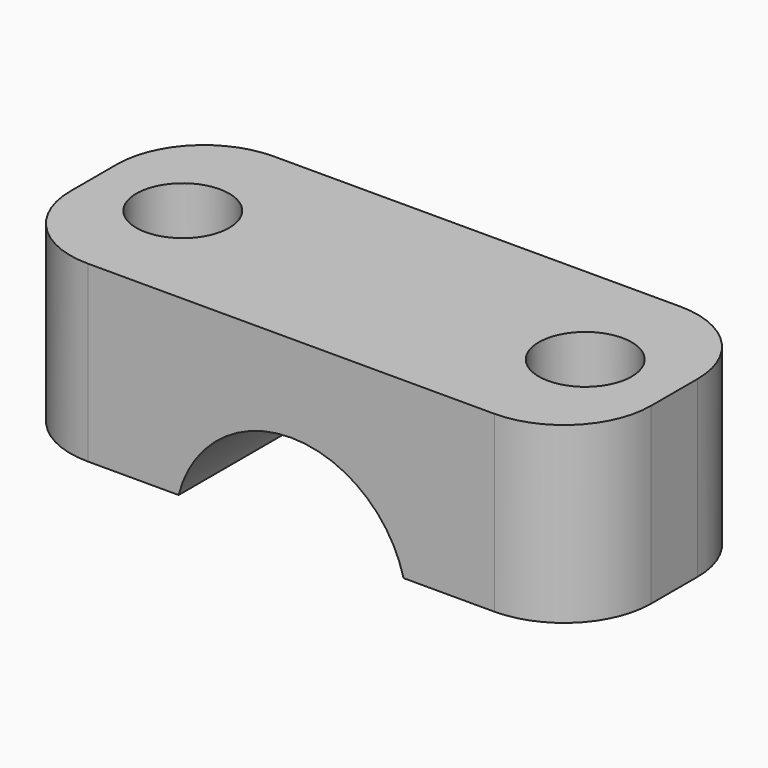
from build123d import *

# Parameters (mm, degrees)
SKETCH004_W     = 20
SKETCH004_H     = 8
PAD003_DEPTH    = 6
POCKET001_DEPTH = 5
SKETCH006_R     = 1.6
POCKET002_DEPTH = 11
FILLET004_R     = 3


with BuildPart() as part:
    # Sketch004 (on XY_Plane001 of Origin002) → Pad003 (new body)
    with BuildSketch(Plane.XY):
        Rectangle(SKETCH004_W, SKETCH004_H)
    extrude(amount=PAD003_DEPTH)

    # Sketch005 (on XZ_Plane001 of Origin002) → Pocket001 (cut, symmetric)
    with BuildSketch(Plane.XZ):
        with BuildLine():
            Line((-3.5, -2.936492), (3.5, -2.936492))
            ThreePointArc((3.5, -2.936492), (0, 3), (-3.5, -2.936492))
        make_face()
    extrude(amount=POCKET001_DEPTH, both=True, mode=Mode.SUBTRACT)

    # Sketch006 (on XY_Plane001 of Origin002) → Pocket002 (cut)
    with BuildSketch(Plane.XY):
        with Locations((-6.93, 0)):
            Circle(SKETCH006_R)
        with Locations((6.93, 0)):
            Circle(SKETCH006_R)
    extrude(amount=POCKET002_DEPTH, mode=Mode.SUBTRACT)

    # Fillet004
    fillet004_edges = [part.edges().sort_by_distance(p)[0] for p in [
        (10, 4, 3),
        (10, -4, 3),
        (-10, -4, 3),
        (-10, 4, 3),
    ]]
    fillet(fillet004_edges, radius=FILLET004_R)


solid = part.part
